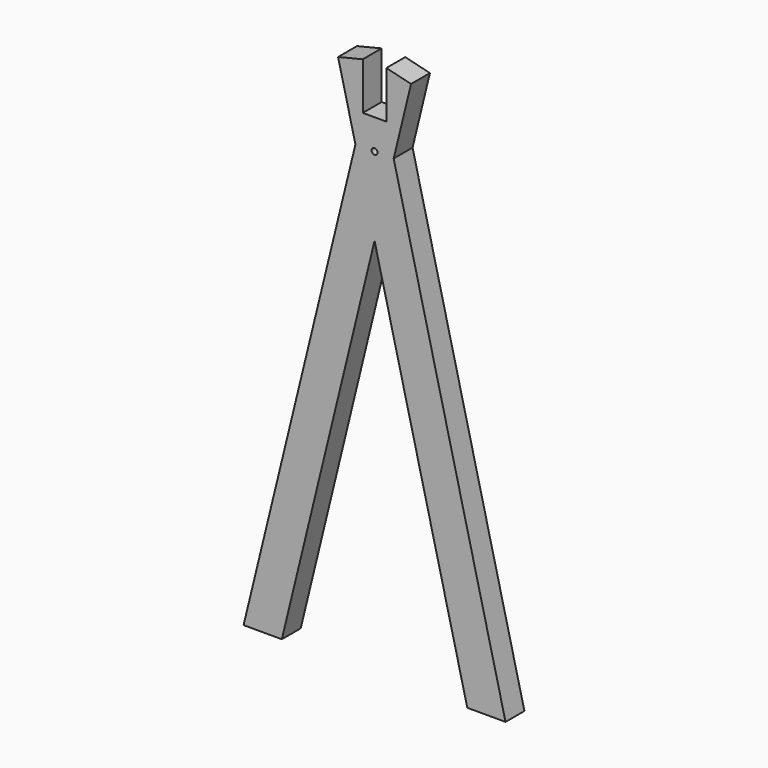
from build123d import *

# Parameters (mm, degrees)
F1_R     = 5
F2_DEPTH = 40


with BuildPart() as f2:
    # F1 (on Front) → F2 (new body)
    with BuildSketch(Plane.XZ):
        Polygon((-20, 40), (-61.831122, 29.819414), (-32.419464, -91.030469), (-20, -40), align=None)
        Polygon((-20, -40), (-32.419464, -91.030469), (0, -224.239156), (32.419464, -91.030469), (20, -40), align=None)
        with Locations((0, -91.030469)):
            Circle(F1_R, mode=Mode.SUBTRACT)
        Polygon((0, -224.239156), (-32.419464, -91.030469), (-222, -870), (-157.161073, -870), align=None)
        Polygon((32.419464, -91.030469), (0, -224.239156), (157.161073, -870), (222, -870), align=None)
        Polygon((20, -40), (32.419464, -91.030469), (61.831122, 29.819414), (20, 40), align=None)
    extrude(amount=F2_DEPTH)


solid = f2.part
